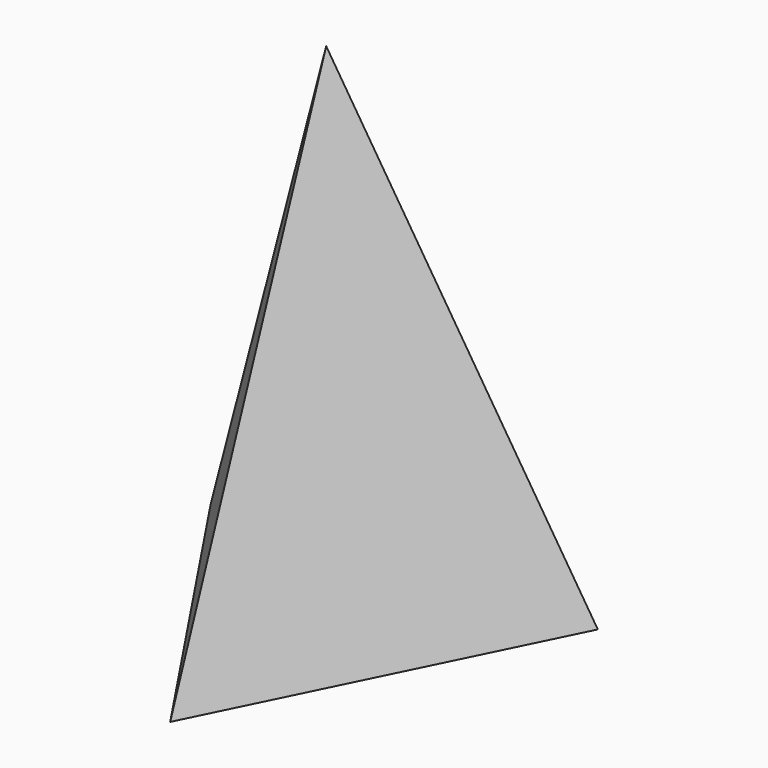
from build123d import *


with BuildPart() as f3:
    # F0 (on Top) → F3 section 0
    with BuildSketch(Plane.XY, mode=Mode.PRIVATE) as f3_s0:
        Polygon((7.025197, -107.045442), (89.191474, 59.60672), (-96.216671, 47.438722), align=None)
    loft([f3_s0.sketch, Vertex(0, 0, 254)])


solid = f3.part
